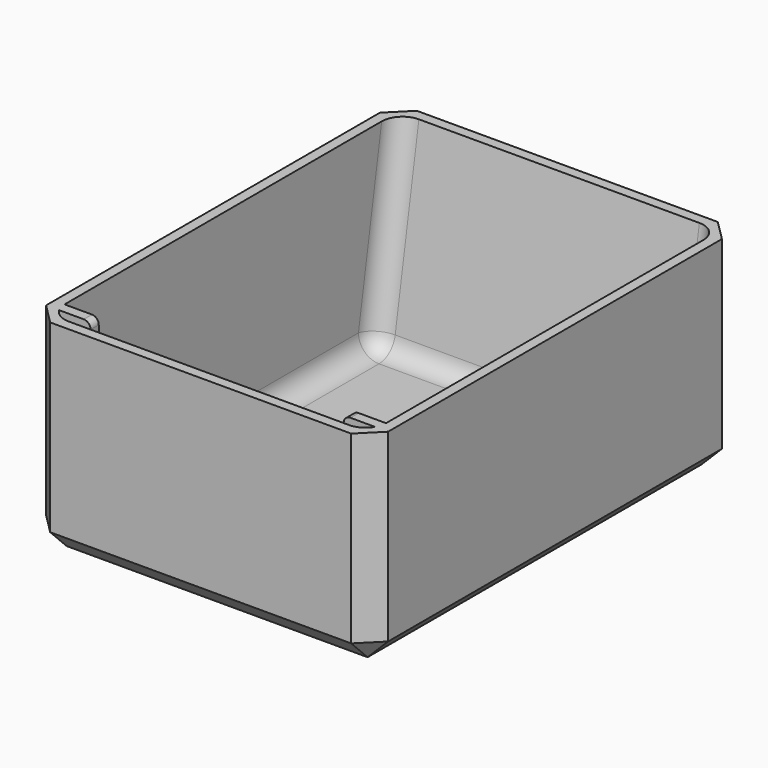
from build123d import *

# Parameters (mm, degrees)
SKETCH_W        = 50
SKETCH_H        = 67
PAD_DEPTH       = 30
POCKET_DEPTH    = 20
POCKET001_DEPTH = 23.5
FILLET_R        = 3
SKETCH003_W     = 5
SKETCH003_H     = 1.5
PAD001_DEPTH    = 28.5
CHAMFER_SIZE    = 3
SKETCH007_W     = 17
SKETCH007_H     = 1.5
PAD002_DEPTH    = 5
FILLET002_R     = 1


with BuildPart() as part:
    # Sketch → Pad (new body)
    with BuildSketch(Plane.XY):
        with Locations((0, -33.5)):
            Rectangle(SKETCH_W, SKETCH_H)
    extrude(amount=PAD_DEPTH)

    # Sketch001 → Pocket (cut, symmetric)
    with BuildSketch(Plane.YZ):
        Polygon((0, 30), (-5, 0), (0, 0), align=None)
    extrude(amount=POCKET_DEPTH, both=True, mode=Mode.SUBTRACT)

    # Sketch002 → Pocket001 (cut, symmetric)
    with BuildSketch(Plane.YZ):
        Polygon((-65.5, 30), (-65.5, 1.5), (-6.25, 1.5), (-1.5, 30), align=None)
    extrude(amount=POCKET001_DEPTH, both=True, mode=Mode.SUBTRACT)

    # Fillet
    fillet_edges = [part.edges().sort_by_distance(p)[0] for p in [
        (0, -65.5, 1.5),
        (23.5, -35.875, 1.5),
        (-23.5, -35.875, 1.5),
        (0, -6.25, 1.5),
        (23.5, -65.5, 15.75),
        (-23.5, -65.5, 15.75),
        (23.5, -3.875, 15.75),
        (-23.5, -3.875, 15.75),
    ]]
    fillet(fillet_edges, radius=FILLET_R)

    # Sketch003 (on Face1 of Fillet) → Pad001 (join)
    with BuildSketch(Plane.XY.offset(30)):
        with Locations((-21, -63.25)):
            Rectangle(SKETCH003_W, SKETCH003_H)
        with Locations((21, -63.25)):
            Rectangle(SKETCH003_W, SKETCH003_H)
    extrude(amount=-PAD001_DEPTH)

    # Chamfer
    chamfer_edges = [part.edges().sort_by_distance(p)[0] for p in [
        (-25, -33.5, 0),
        (25, -33.5, 0),
        (25, -67, 15),
        (-25, -67, 15),
        (0, -67, 0),
        (25, 0, 15),
        (-25, 0, 15),
        (-22.5, 0, 0),
        (22.5, 0, 0),
    ]]
    chamfer(chamfer_edges, length=CHAMFER_SIZE)

    # Sketch007 (on Face40 of Chamfer) → Pad002 (join)
    with BuildSketch(Plane.XY.offset(1.5)):
        with Locations((0, -63.25)):
            Rectangle(SKETCH007_W, SKETCH007_H)
    extrude(amount=PAD002_DEPTH)

    # Fillet002
    fillet002_edges = [part.edges().sort_by_distance(p)[0] for p in [
        (18.5, -63.25, 30),
        (8.5, -63.25, 6.5),
        (-8.5, -63.25, 6.5),
        (-18.5, -63.25, 30),
    ]]
    fillet(fillet002_edges, radius=FILLET002_R)


solid = part.part
